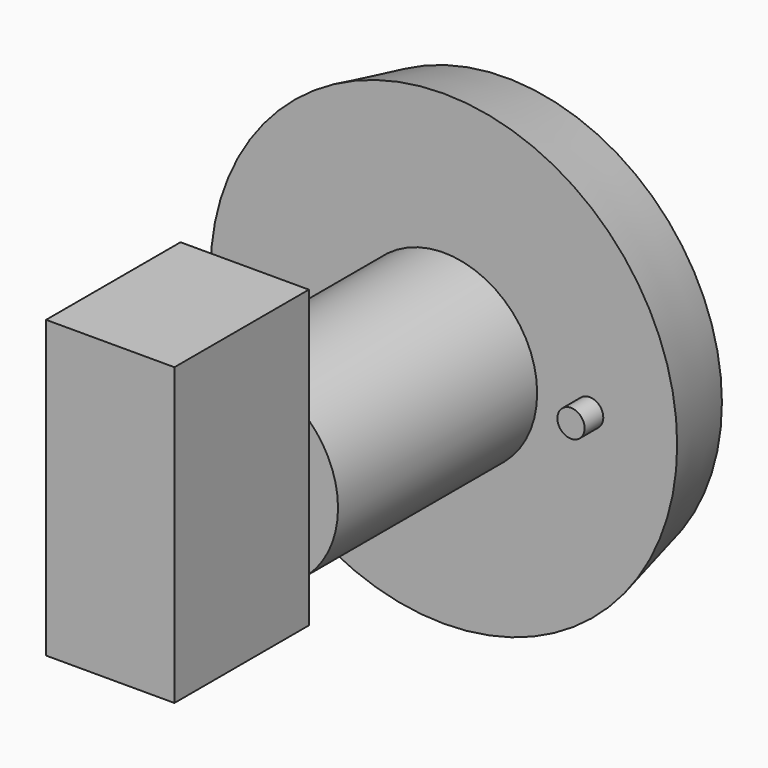
from build123d import *

# Parameters (mm, degrees)
SKETCH023_R  = 1.75
PAD012_DEPTH = 3
SKETCH024_W  = 16.5
SKETCH024_H  = 38
PAD013_DEPTH = 21.6


with BuildPart() as part:
    # Sketch021 → Revolution005 (revolve)
    with BuildSketch(Plane.XY):
        Polygon((0, 0), (0, -32), (12, -32), (12, 0), (30, 0), (27.75, 10), (0, 10), align=None)
    revolve(axis=Axis((0, 0, 0), (0, 1, 0)))

    # Sketch023 → Pad012 (new body)
    with BuildSketch(Plane.XZ):
        with Locations((18.75, 0)):
            Circle(SKETCH023_R)
        with Locations((-18.75, 0)):
            Circle(SKETCH023_R)
    extrude(amount=PAD012_DEPTH)

    # Sketch024 (on Face1 of Pad012) → Pad013 (join)
    with BuildSketch(Plane.XZ.offset(32)):
        with Locations((0, 4.5)):
            Rectangle(SKETCH024_W, SKETCH024_H)
    extrude(amount=PAD013_DEPTH)


solid = part.part
